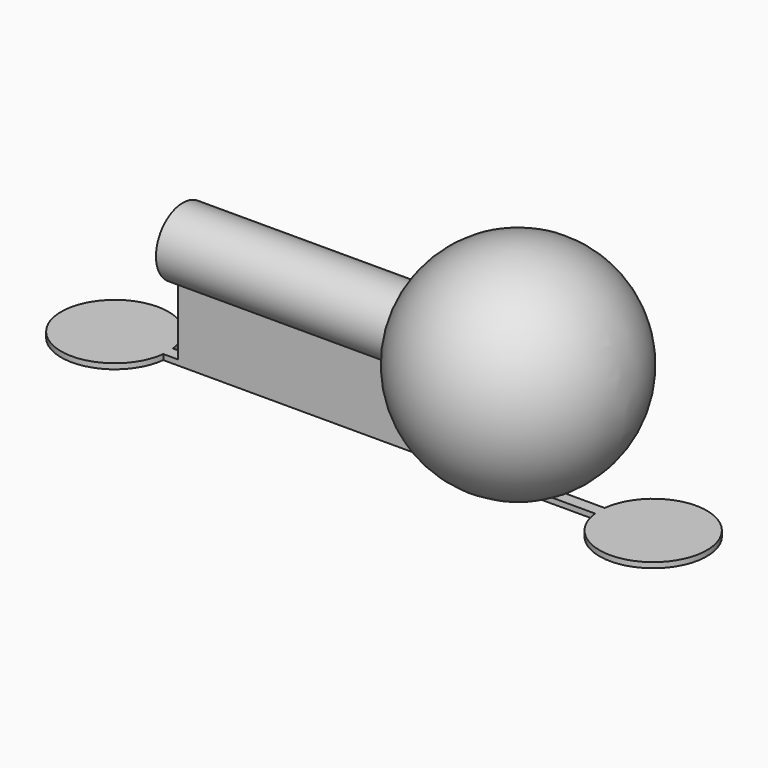
from build123d import *

# Parameters (mm, degrees)
EXTRUDE_DEPTH  = 0.4
CYLINDER_R     = 2.5
CYLINDER_DEPTH = 25
BOX_W          = 17
BOX_H          = 0.9
BOX_DEPTH      = 8


with BuildPart() as extrude_body:
    # Sketch011 (on Face6 of Fusion) → Extrude (new body)
    with BuildSketch(Plane(origin=(0, 0, 2), x_dir=(1, 0, 0), z_dir=(0, 0, -1))):
        with BuildLine():
            Line((-44.094311, -6.55), (-11.902384, -6.55))
            ThreePointArc((-11.902384, -7.45), (-3.927777, -7), (-11.902384, -6.55))
            Line((-11.902384, -7.45), (-44.094311, -7.45))
            ThreePointArc((-44.094311, -6.55), (-52.068918, -7), (-44.094311, -7.45))
        make_face()
    extrude(amount=-EXTRUDE_DEPTH)


with BuildPart() as cylinder:
    # Cylinder → Cylinder (new body)
    with BuildSketch(Plane(origin=(-18, 7, 10), x_dir=(0, 0, 1), z_dir=(-1, 0, 0))):
        Circle(CYLINDER_R)
    extrude(amount=CYLINDER_DEPTH)


with BuildPart() as cube:
    # Box → Box (new body)
    with BuildSketch(Plane(origin=(-43, 6.55, 2), x_dir=(1, 0, 0), z_dir=(0, 0, 1))):
        with Locations((8.5, 0.45)):
            Rectangle(BOX_W, BOX_H)
    extrude(amount=BOX_DEPTH)


with BuildPart() as out_ball:
    # Sphere001 → Sphere001 (revolve)
    with BuildSketch(Plane(origin=(-18, 7, 10), x_dir=(1, 0, 0), z_dir=(0, -1, 0))):
        with BuildLine():
            ThreePointArc((0, -8), (8, 0), (0, 8))
            Line((0, 8), (0, -8))
        make_face()
    revolve(axis=Axis((-18, 7, 10), (0, 0, 1)))

    # Fusion: union Cylinder, Cube
    add(cylinder.part)
    add(cube.part)

    # Fusion001: union Extrude body
    add(extrude_body.part)


solid = out_ball.part
